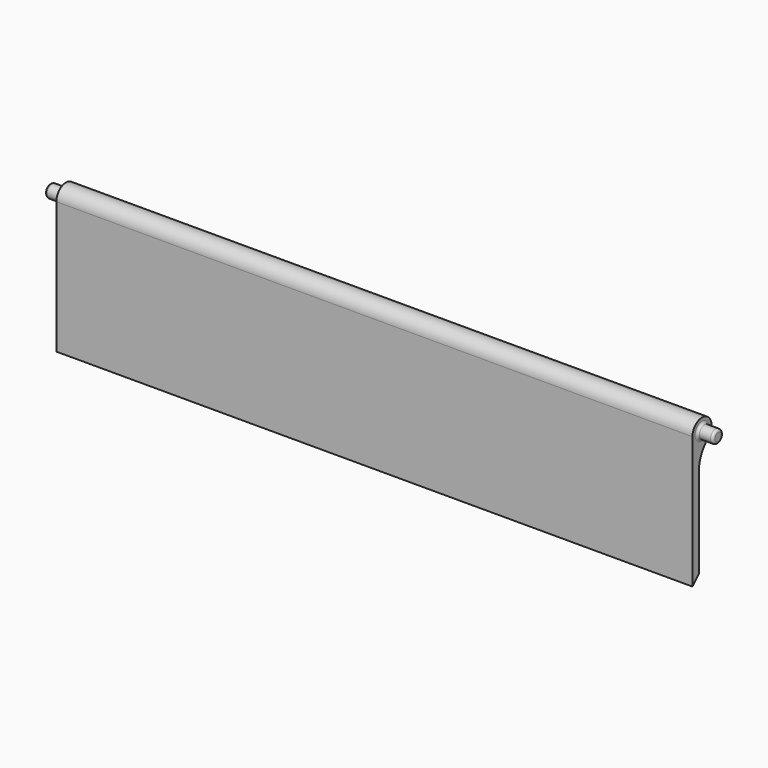
from build123d import *

# Parameters (mm, degrees)
PAD002_DEPTH = 39.75
SKETCH008_R  = 0.8
PAD004_DEPTH = 41.75
FILLET_R     = 0.3


with BuildPart() as part:
    # Sketch003 → Pad002 (new body, symmetric)
    with BuildSketch(Plane.YZ):
        with BuildLine():
            Line((-1.5, -16.5), (-0.5, -15.5))
            Line((-0.5, -15.5), (-0.5, -4.242641))
            ThreePointArc((0.954545, -1.157084), (-0.118136, -2.537035), (-0.5, -4.242641))
            ThreePointArc((0.954545, -1.157084), (0.639602, 1.356801), (-1.5, 0))
            Line((-1.5, 0), (-1.5, -16.5))
        make_face()
    extrude(amount=PAD002_DEPTH, both=True)

    # Sketch008 → Pad004 (join, symmetric)
    with BuildSketch(Plane.YZ):
        Circle(SKETCH008_R)
    extrude(amount=PAD004_DEPTH, both=True)

    # Fillet
    fillet_edges = [part.edges().sort_by_distance(p)[0] for p in [
        (41.75, -0.8, 0),
        (39.75, -0.8, 0),
        (-39.75, -0.8, 0),
        (-41.75, -0.8, 0),
    ]]
    fillet(fillet_edges, radius=FILLET_R)


solid = part.part
